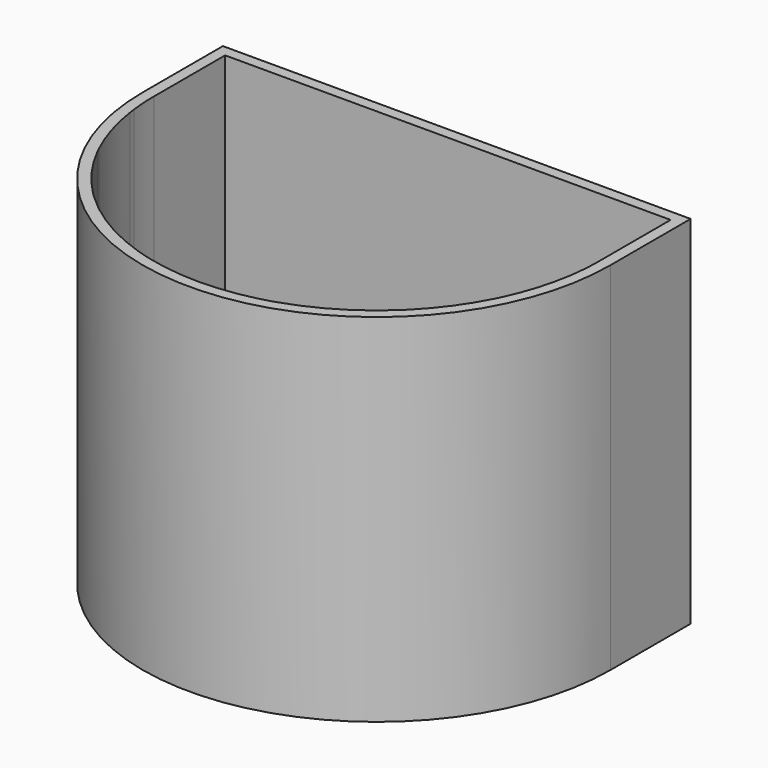
from build123d import *

# Parameters (mm, degrees)
F0_R     = 2.54
F1_DEPTH = 12.7
F2_DEPTH = 101.6


with BuildPart() as f1:
    # F0 (on Top) → F1 (new body)
    with BuildSketch(Plane.XY):
        with BuildLine():
            ThreePointArc((62.807028, -9.355599), (62.927768, -8.505646), (63.037006, -7.654138))
            ThreePointArc((63.037006, -7.654138), (59.982216, 3.436966), (54.992919, 13.802835))
            Line((54.992919, 13.802835), (59.807156, 16.640067))
            ThreePointArc((59.807156, 16.640067), (61.755178, 13.152092), (63.5, 9.558159))
            Line((63.5, 9.558159), (63.5, 10.773581))
            ThreePointArc((63.5, 10.773581), (61.948138, 13.876041), (60.244813, 16.897997))
            Line((60.244813, 16.897997), (63.5, 18.816416))
            Line((63.5, 18.816416), (63.5, 19.406074))
            Line((63.5, 19.406074), (59.98292, 17.33331))
            ThreePointArc((59.98292, 17.33331), (57.271703, 21.467256), (54.276086, 25.4))
            Line((54.276086, 25.4), (53.617854, 25.4))
            ThreePointArc((53.617854, 25.4), (56.734434, 21.346544), (59.545234, 17.075363))
            Line((59.545234, 17.075363), (54.730649, 14.237925))
            ThreePointArc((54.730649, 14.237925), (50.736862, 20.056274), (46.127295, 25.4))
            Line((46.127295, 25.4), (45.419177, 25.4))
            ThreePointArc((45.419177, 25.4), (50.181985, 19.943238), (54.292955, 13.979974))
            Line((54.292955, 13.979974), (49.47828, 11.142483))
            ThreePointArc((49.47828, 11.142483), (43.921813, 18.772751), (37.200587, 25.4))
            Line((37.200587, 25.4), (36.404004, 25.4))
            ThreePointArc((36.404004, 25.4), (43.334384, 18.675127), (49.040577, 10.884526))
            Line((49.040577, 10.884526), (44.225779, 8.046963))
            ThreePointArc((44.225779, 8.046963), (36.522268, 17.777828), (26.72756, 25.4))
            Line((26.72756, 25.4), (25.727881, 25.4))
            ThreePointArc((25.727881, 25.4), (35.85601, 17.720544), (43.788063, 7.788999))
            Line((43.788063, 7.788999), (38.973094, 4.951334))
            ThreePointArc((38.973094, 4.951334), (26.958721, 17.9391), (10.91621, 25.4))
            Line((10.91621, 25.4), (8.265739, 25.4))
            ThreePointArc((8.265739, 25.4), (25.573822, 18.234106), (38.491586, 4.667561))
            Line((38.491586, 4.667561), (33.676364, 1.829748))
            ThreePointArc((33.676364, 1.829748), (19.381603, 15.510308), (0.254, 20.573186))
            Line((0.254, 20.573186), (0.254, 25.4))
            Line((0.254, 25.4), (-0.254, 25.4))
            Line((-0.254, 25.4), (-0.254, 20.573186))
            ThreePointArc((-0.254, 20.573186), (-19.381603, 15.510308), (-33.676364, 1.829748))
            Line((-33.676364, 1.829748), (-38.491586, 4.667561))
            ThreePointArc((-38.491586, 4.667561), (-25.573822, 18.234106), (-8.265739, 25.4))
            Line((-8.265739, 25.4), (-10.91621, 25.4))
            ThreePointArc((-10.91621, 25.4), (-26.958721, 17.9391), (-38.973094, 4.951334))
            Line((-38.973094, 4.951334), (-43.788063, 7.788999))
            ThreePointArc((-43.788063, 7.788999), (-35.85601, 17.720544), (-25.727881, 25.4))
            Line((-25.727881, 25.4), (-26.72756, 25.4))
            ThreePointArc((-26.72756, 25.4), (-36.522268, 17.777828), (-44.225779, 8.046963))
            Line((-44.225779, 8.046963), (-49.040577, 10.884526))
            ThreePointArc((-49.040577, 10.884526), (-43.334384, 18.675127), (-36.404004, 25.4))
            Line((-36.404004, 25.4), (-37.200587, 25.4))
            ThreePointArc((-37.200587, 25.4), (-43.921813, 18.772751), (-49.47828, 11.142483))
            Line((-49.47828, 11.142483), (-54.292955, 13.979974))
            ThreePointArc((-54.292955, 13.979974), (-50.181985, 19.943238), (-45.419177, 25.4))
            Line((-45.419177, 25.4), (-46.127295, 25.4))
            ThreePointArc((-46.127295, 25.4), (-50.736862, 20.056274), (-54.730649, 14.237925))
            Line((-54.730649, 14.237925), (-59.545234, 17.075363))
            ThreePointArc((-59.545234, 17.075363), (-56.734434, 21.346544), (-53.617854, 25.4))
            Line((-53.617854, 25.4), (-54.276086, 25.4))
            ThreePointArc((-54.276086, 25.4), (-57.271703, 21.467256), (-59.98292, 17.33331))
            Line((-59.98292, 17.33331), (-63.5, 19.406074))
            Line((-63.5, 19.406074), (-63.5, 18.816416))
            Line((-63.5, 18.816416), (-60.244813, 16.897997))
            ThreePointArc((-60.244813, 16.897997), (-61.948138, 13.876041), (-63.5, 10.773581))
            Line((-63.5, 10.773581), (-63.5, 9.558159))
            ThreePointArc((-63.5, 9.558159), (-61.755178, 13.152092), (-59.807156, 16.640067))
            Line((-59.807156, 16.640067), (-54.992919, 13.802835))
            ThreePointArc((-54.992919, 13.802835), (-59.982216, 3.436966), (-63.037006, -7.654138))
            ThreePointArc((-63.037006, -7.654138), (-62.927768, -8.505646), (-62.807028, -9.355599))
            ThreePointArc((-62.807028, -9.355599), (-59.787833, 2.493427), (-54.55526, 13.544904))
            Line((-54.55526, 13.544904), (-49.741007, 10.707662))
            ThreePointArc((-49.741007, 10.707662), (-56.816317, -7.578632), (-57.390142, -27.177594))
            ThreePointArc((-57.390142, -27.177594), (-57.018159, -27.949589), (-56.635792, -28.716495))
            ThreePointArc((-56.635792, -28.716495), (-56.473654, -8.477371), (-49.303347, 10.44973))
            Line((-49.303347, 10.44973), (-44.489071, 7.612474))
            ThreePointArc((-44.489071, 7.612474), (-51.863806, -18.492707), (-45.051726, -44.75033))
            ThreePointArc((-45.051726, -44.75033), (-44.35195, -45.443971), (-43.641497, -46.126671))
            ThreePointArc((-43.641497, -46.126671), (-44.005054, -45.531721), (-44.360501, -44.93189))
            Line((-44.360501, -44.93189), (-39.549804, -42.088645))
            ThreePointArc((-39.549804, -42.088645), (-30.99535, -52.728693), (-19.683239, -60.372346))
            ThreePointArc((-19.683239, -60.372346), (-17.346548, -61.084755), (-14.984184, -61.70676))
            ThreePointArc((-14.984184, -61.70676), (-28.800282, -53.902098), (-39.068733, -41.80432))
            Line((-39.068733, -41.80432), (-34.258008, -38.961059))
            ThreePointArc((-34.258008, -38.961059), (-19.872384, -53.330457), (-0.254, -58.673186))
            Line((-0.254, -58.673186), (-0.254, -63.499492))
            ThreePointArc((-0.254, -63.499492), (0, -63.5), (0.254, -63.499492))
            Line((0.254, -63.499492), (0.254, -58.673186))
            ThreePointArc((0.254, -58.673186), (19.872384, -53.330457), (34.258008, -38.961059))
            Line((34.258008, -38.961059), (39.068733, -41.80432))
            ThreePointArc((39.068733, -41.80432), (28.800282, -53.902098), (14.984184, -61.70676))
            ThreePointArc((14.984184, -61.70676), (17.346548, -61.084755), (19.683239, -60.372346))
            ThreePointArc((19.683239, -60.372346), (30.99535, -52.728693), (39.549804, -42.088645))
            Line((39.549804, -42.088645), (44.360501, -44.93189))
            ThreePointArc((44.360501, -44.93189), (44.005054, -45.531721), (43.641497, -46.126671))
            ThreePointArc((43.641497, -46.126671), (44.35195, -45.443971), (45.051726, -44.75033))
            ThreePointArc((45.051726, -44.75033), (51.863806, -18.492707), (44.489071, 7.612474))
            Line((44.489071, 7.612474), (49.303347, 10.44973))
            ThreePointArc((49.303347, 10.44973), (56.473654, -8.477371), (56.635792, -28.716495))
            ThreePointArc((56.635792, -28.716495), (57.018159, -27.949589), (57.390142, -27.177594))
            ThreePointArc((57.390142, -27.177594), (56.816317, -7.578632), (49.741007, 10.707662))
            Line((49.741007, 10.707662), (54.55526, 13.544904))
            ThreePointArc((54.55526, 13.544904), (59.787833, 2.493427), (62.807028, -9.355599))
        make_face()
        with BuildLine():
            ThreePointArc((-29.009902, -35.859295), (-16.851253, -48.035549), (-0.254, -52.577038))
            Line((-0.254, -52.577038), (-0.254, -58.165175))
            ThreePointArc((-0.254, -58.165175), (-19.620624, -52.889216), (-33.820668, -38.70258))
            Line((-33.820668, -38.70258), (-29.009902, -35.859295))
        make_face(mode=Mode.SUBTRACT)
        with BuildLine():
            ThreePointArc((-23.761722, -32.757487), (-13.830084, -42.740576), (-0.254, -46.480824))
            Line((-0.254, -46.480824), (-0.254, -52.069023))
            ThreePointArc((-0.254, -52.069023), (-16.59949, -47.594304), (-28.572557, -35.600813))
            Line((-28.572557, -35.600813), (-23.761722, -32.757487))
        make_face(mode=Mode.SUBTRACT)
        with BuildLine():
            ThreePointArc((-18.513406, -29.655598), (-10.808846, -37.445482), (-0.254, -40.384488))
            Line((-0.254, -40.384488), (-0.254, -45.972802))
            ThreePointArc((-0.254, -45.972802), (-13.578317, -42.299324), (-23.324369, -32.499))
            Line((-23.324369, -32.499), (-18.513406, -29.655598))
        make_face(mode=Mode.SUBTRACT)
        with BuildLine():
            ThreePointArc((-13.264789, -26.553531), (-7.787455, -32.15012), (-0.254, -34.287883))
            Line((-0.254, -34.287883), (-0.254, -39.876451))
            ThreePointArc((-0.254, -39.876451), (-10.557071, -37.004215), (-18.076036, -29.397101))
            Line((-18.076036, -29.397101), (-13.264789, -26.553531))
        make_face(mode=Mode.SUBTRACT)
        with BuildLine():
            ThreePointArc((-8.015269, -23.450931), (-4.765607, -26.853956), (-0.254, -28.190472))
            Line((-0.254, -28.190472), (-0.254, -33.77981))
            ThreePointArc((-0.254, -33.77981), (-7.53566, -31.708817), (-12.827379, -26.295011))
            Line((-12.827379, -26.295011), (-8.015269, -23.450931))
        make_face(mode=Mode.SUBTRACT)
        with BuildLine():
            ThreePointArc((-2.759412, -20.344586), (-1.740549, -21.552158), (-0.254, -22.087398))
            Line((-0.254, -22.087398), (-0.254, -27.682264))
            ThreePointArc((-0.254, -27.682264), (-4.513736, -26.412519), (-7.577708, -23.192322))
            Line((-7.577708, -23.192322), (-2.759412, -20.344586))
        make_face(mode=Mode.SUBTRACT)
        with BuildLine():
            Line((0.254, -58.165175), (0.254, -52.577038))
            ThreePointArc((0.254, -52.577038), (16.851253, -48.035549), (29.009902, -35.859295))
            Line((29.009902, -35.859295), (33.820668, -38.70258))
            ThreePointArc((33.820668, -38.70258), (19.620624, -52.889216), (0.254, -58.165175))
        make_face(mode=Mode.SUBTRACT)
        with BuildLine():
            Line((0.254, -52.069023), (0.254, -46.480824))
            ThreePointArc((0.254, -46.480824), (13.830084, -42.740576), (23.761722, -32.757487))
            Line((23.761722, -32.757487), (28.572557, -35.600813))
            ThreePointArc((28.572557, -35.600813), (16.59949, -47.594304), (0.254, -52.069023))
        make_face(mode=Mode.SUBTRACT)
        with BuildLine():
            Line((0.254, -45.972802), (0.254, -40.384488))
            ThreePointArc((0.254, -40.384488), (10.808846, -37.445482), (18.513406, -29.655598))
            Line((18.513406, -29.655598), (23.324369, -32.499))
            ThreePointArc((23.324369, -32.499), (13.578317, -42.299324), (0.254, -45.972802))
        make_face(mode=Mode.SUBTRACT)
        with BuildLine():
            Line((0.254, -39.876451), (0.254, -34.287883))
            ThreePointArc((0.254, -34.287883), (7.787455, -32.15012), (13.264789, -26.553531))
            Line((13.264789, -26.553531), (18.076036, -29.397101))
            ThreePointArc((18.076036, -29.397101), (10.557071, -37.004215), (0.254, -39.876451))
        make_face(mode=Mode.SUBTRACT)
        with BuildLine():
            Line((0.254, -33.77981), (0.254, -28.190472))
            ThreePointArc((0.254, -28.190472), (4.765607, -26.853956), (8.015269, -23.450931))
            Line((8.015269, -23.450931), (12.827379, -26.295011))
            ThreePointArc((12.827379, -26.295011), (7.53566, -31.708817), (0.254, -33.77981))
        make_face(mode=Mode.SUBTRACT)
        with BuildLine():
            Line((0.254, -27.682264), (0.254, -22.087398))
            ThreePointArc((0.254, -22.087398), (1.740549, -21.552158), (2.759412, -20.344586))
            Line((2.759412, -20.344586), (7.577708, -23.192322))
            ThreePointArc((7.577708, -23.192322), (4.513736, -26.412519), (0.254, -27.682264))
        make_face(mode=Mode.SUBTRACT)
        with BuildLine():
            Line((-39.803082, -41.648247), (-44.614345, -44.491827))
            ThreePointArc((-44.614345, -44.491827), (-51.355773, -18.492389), (-44.051408, 7.354541))
            Line((-44.051408, 7.354541), (-39.237101, 4.517267))
            ThreePointArc((-39.237101, 4.517267), (-45.767361, -18.4889), (-39.803082, -41.648247))
        make_face(mode=Mode.SUBTRACT)
        with BuildLine():
            Line((-34.510481, -38.520185), (-39.321947, -41.363884))
            ThreePointArc((-39.321947, -41.363884), (-45.208514, -18.488551), (-38.755668, 4.233538))
            Line((-38.755668, 4.233538), (-33.941314, 1.396237))
            ThreePointArc((-33.941314, 1.396237), (-39.619972, -18.48506), (-34.510481, -38.520185))
        make_face(mode=Mode.SUBTRACT)
        with BuildLine():
            Line((-29.261283, -35.417776), (-34.073063, -38.26166))
            ThreePointArc((-34.073063, -38.26166), (-39.111916, -18.484743), (-33.503643, 1.138298))
            Line((-33.503643, 1.138298), (-28.689217, -1.699046))
            ThreePointArc((-28.689217, -1.699046), (-33.523176, -18.481251), (-29.261283, -35.417776))
        make_face(mode=Mode.SUBTRACT)
        with BuildLine():
            Line((-24.011527, -32.315036), (-28.823829, -35.159229))
            ThreePointArc((-28.823829, -35.159229), (-33.015096, -18.480934), (-28.251537, -1.956989))
            Line((-28.251537, -1.956989), (-23.436992, -4.794403))
            ThreePointArc((-23.436992, -4.794403), (-27.426024, -18.477439), (-24.011527, -32.315036))
        make_face(mode=Mode.SUBTRACT)
        with BuildLine():
            Line((-18.760733, -29.211683), (-23.574011, -32.056452))
            ThreePointArc((-23.574011, -32.056452), (-26.917905, -18.477122), (-22.999298, -5.052355))
            Line((-22.999298, -5.052355), (-18.184529, -7.889901))
            ThreePointArc((-18.184529, -7.889901), (-21.328213, -18.473622), (-18.760733, -29.211683))
        make_face(mode=Mode.SUBTRACT)
        with BuildLine():
            Line((-13.507652, -26.106978), (-18.323091, -28.953025))
            ThreePointArc((-18.323091, -28.953025), (-20.820015, -18.473303), (-17.746806, -8.147869))
            Line((-17.746806, -8.147869), (-12.931542, -10.985707))
            ThreePointArc((-12.931542, -10.985707), (-15.228951, -18.469788), (-13.507652, -26.106978))
        make_face(mode=Mode.SUBTRACT)
        with BuildLine():
            Line((-8.247691, -22.998206), (-13.069703, -25.848139))
            ThreePointArc((-13.069703, -25.848139), (-14.720557, -18.469466), (-12.493749, -11.243717))
            Line((-12.493749, -11.243717), (-7.676984, -14.08244))
            ThreePointArc((-7.676984, -14.08244), (-9.125324, -18.465879), (-8.247691, -22.998206))
        make_face(mode=Mode.SUBTRACT)
        with BuildLine():
            Line((-2.938335, -19.860242), (-7.80859, -22.738687))
            ThreePointArc((-7.80859, -22.738687), (-8.6162, -18.465543), (-7.238929, -14.340604))
            Line((-7.238929, -14.340604), (-2.411361, -17.185693))
            ThreePointArc((-2.411361, -17.185693), (-2.990504, -18.460773), (-2.938335, -19.860242))
        make_face(mode=Mode.SUBTRACT)
        with BuildLine():
            Line((-0.254, -10.417736), (-0.254, -16.012602))
            ThreePointArc((-0.254, -16.012602), (-1.222549, -16.257926), (-2.059731, -16.803266))
            Line((-2.059731, -16.803266), (-6.948679, -13.922003))
            ThreePointArc((-6.948679, -13.922003), (-4.004949, -11.398799), (-0.254, -10.417736))
        make_face(mode=Mode.SUBTRACT)
        with BuildLine():
            Line((-0.254, -4.32019), (-0.254, -9.909528))
            ThreePointArc((-0.254, -9.909528), (-4.257208, -10.957478), (-7.388541, -13.662774))
            Line((-7.388541, -13.662774), (-12.216914, -10.81721))
            ThreePointArc((-12.216914, -10.81721), (-7.030913, -6.104032), (-0.254, -4.32019))
        make_face(mode=Mode.SUBTRACT)
        with BuildLine():
            Line((-0.254, 1.776451), (-0.254, -3.812117))
            ThreePointArc((-0.254, -3.812117), (-7.283014, -5.662868), (-12.655339, -10.558828))
            Line((-12.655339, -10.558828), (-17.475513, -7.718096))
            ThreePointArc((-17.475513, -7.718096), (-10.05587, -0.810343), (-0.254, 1.776451))
        make_face(mode=Mode.SUBTRACT)
        with BuildLine():
            Line((-0.254, 7.872802), (-0.254, 2.284488))
            ThreePointArc((-0.254, 2.284488), (-10.307933, -0.369223), (-17.913554, -7.45994))
            Line((-17.913554, -7.45994), (-22.731033, -4.620797))
            ThreePointArc((-22.731033, -4.620797), (-13.080537, 4.482984), (-0.254, 7.872802))
        make_face(mode=Mode.SUBTRACT)
        with BuildLine():
            Line((-0.254, 20.065175), (-0.254, 14.477038))
            ThreePointArc((-0.254, 14.477038), (-16.357124, 10.217239), (-28.42299, -1.266287))
            Line((-28.42299, -1.266287), (-33.238602, 1.571756))
            ThreePointArc((-33.238602, 1.571756), (-19.129564, 15.069221), (-0.254, 20.065175))
        make_face(mode=Mode.SUBTRACT)
        with BuildLine():
            Line((-0.254, 13.969023), (-0.254, 8.380824))
            ThreePointArc((-0.254, 8.380824), (-13.332586, 4.924086), (-23.168919, -4.362732))
            Line((-23.168919, -4.362732), (-27.985182, -1.524305))
            ThreePointArc((-27.985182, -1.524305), (-16.105082, 9.776147), (-0.254, 13.969023))
        make_face(mode=Mode.SUBTRACT)
        with Locations((0, -19.05)):
            Circle(F0_R, mode=Mode.SUBTRACT)
        with BuildLine():
            ThreePointArc((2.938335, -19.860242), (2.990504, -18.460773), (2.411361, -17.185693))
            Line((2.411361, -17.185693), (7.238929, -14.340604))
            ThreePointArc((7.238929, -14.340604), (8.6162, -18.465543), (7.80859, -22.738687))
            Line((7.80859, -22.738687), (2.938335, -19.860242))
        make_face(mode=Mode.SUBTRACT)
        with BuildLine():
            Line((0.254, -16.012602), (0.254, -10.417736))
            ThreePointArc((0.254, -10.417736), (4.004949, -11.398799), (6.948679, -13.922003))
            Line((6.948679, -13.922003), (2.059731, -16.803266))
            ThreePointArc((2.059731, -16.803266), (1.222549, -16.257926), (0.254, -16.012602))
        make_face(mode=Mode.SUBTRACT)
        with BuildLine():
            ThreePointArc((8.247691, -22.998206), (9.125324, -18.465879), (7.676984, -14.08244))
            Line((7.676984, -14.08244), (12.493749, -11.243717))
            ThreePointArc((12.493749, -11.243717), (14.720557, -18.469466), (13.069703, -25.848139))
            Line((13.069703, -25.848139), (8.247691, -22.998206))
        make_face(mode=Mode.SUBTRACT)
        with BuildLine():
            Line((0.254, -9.909528), (0.254, -4.32019))
            ThreePointArc((0.254, -4.32019), (7.030913, -6.104032), (12.216914, -10.81721))
            Line((12.216914, -10.81721), (7.388541, -13.662774))
            ThreePointArc((7.388541, -13.662774), (4.257208, -10.957478), (0.254, -9.909528))
        make_face(mode=Mode.SUBTRACT)
        with BuildLine():
            ThreePointArc((13.507652, -26.106978), (15.228951, -18.469788), (12.931542, -10.985707))
            Line((12.931542, -10.985707), (17.746806, -8.147869))
            ThreePointArc((17.746806, -8.147869), (20.820015, -18.473303), (18.323091, -28.953025))
            Line((18.323091, -28.953025), (13.507652, -26.106978))
        make_face(mode=Mode.SUBTRACT)
        with BuildLine():
            ThreePointArc((18.760733, -29.211683), (21.328213, -18.473622), (18.184529, -7.889901))
            Line((18.184529, -7.889901), (22.999298, -5.052355))
            ThreePointArc((22.999298, -5.052355), (26.917905, -18.477122), (23.574011, -32.056452))
            Line((23.574011, -32.056452), (18.760733, -29.211683))
        make_face(mode=Mode.SUBTRACT)
        with BuildLine():
            ThreePointArc((24.011527, -32.315036), (27.426024, -18.477439), (23.436992, -4.794403))
            Line((23.436992, -4.794403), (28.251537, -1.956989))
            ThreePointArc((28.251537, -1.956989), (33.015096, -18.480934), (28.823829, -35.159229))
            Line((28.823829, -35.159229), (24.011527, -32.315036))
        make_face(mode=Mode.SUBTRACT)
        with BuildLine():
            Line((0.254, -3.812117), (0.254, 1.776451))
            ThreePointArc((0.254, 1.776451), (10.05587, -0.810343), (17.475513, -7.718096))
            Line((17.475513, -7.718096), (12.655339, -10.558828))
            ThreePointArc((12.655339, -10.558828), (7.283014, -5.662868), (0.254, -3.812117))
        make_face(mode=Mode.SUBTRACT)
        with BuildLine():
            Line((0.254, 2.284488), (0.254, 7.872802))
            ThreePointArc((0.254, 7.872802), (13.080537, 4.482984), (22.731033, -4.620797))
            Line((22.731033, -4.620797), (17.913554, -7.45994))
            ThreePointArc((17.913554, -7.45994), (10.307933, -0.369223), (0.254, 2.284488))
        make_face(mode=Mode.SUBTRACT)
        with BuildLine():
            ThreePointArc((29.261283, -35.417776), (33.523176, -18.481251), (28.689217, -1.699046))
            Line((28.689217, -1.699046), (33.503643, 1.138298))
            ThreePointArc((33.503643, 1.138298), (39.111916, -18.484743), (34.073063, -38.26166))
            Line((34.073063, -38.26166), (29.261283, -35.417776))
        make_face(mode=Mode.SUBTRACT)
        with BuildLine():
            ThreePointArc((34.510481, -38.520185), (39.619972, -18.48506), (33.941314, 1.396237))
            Line((33.941314, 1.396237), (38.755668, 4.233538))
            ThreePointArc((38.755668, 4.233538), (45.208514, -18.488551), (39.321947, -41.363884))
            Line((39.321947, -41.363884), (34.510481, -38.520185))
        make_face(mode=Mode.SUBTRACT)
        with BuildLine():
            ThreePointArc((39.803082, -41.648247), (45.767361, -18.4889), (39.237101, 4.517267))
            Line((39.237101, 4.517267), (44.051408, 7.354541))
            ThreePointArc((44.051408, 7.354541), (51.355773, -18.492389), (44.614345, -44.491827))
            Line((44.614345, -44.491827), (39.803082, -41.648247))
        make_face(mode=Mode.SUBTRACT)
        with BuildLine():
            Line((0.254, 8.380824), (0.254, 13.969023))
            ThreePointArc((0.254, 13.969023), (16.105082, 9.776147), (27.985182, -1.524305))
            Line((27.985182, -1.524305), (23.168919, -4.362732))
            ThreePointArc((23.168919, -4.362732), (13.332586, 4.924086), (0.254, 8.380824))
        make_face(mode=Mode.SUBTRACT)
        with BuildLine():
            Line((0.254, 14.477038), (0.254, 20.065175))
            ThreePointArc((0.254, 20.065175), (19.129564, 15.069221), (33.238602, 1.571756))
            Line((33.238602, 1.571756), (28.42299, -1.266287))
            ThreePointArc((28.42299, -1.266287), (16.357124, 10.217239), (0.254, 14.477038))
        make_face(mode=Mode.SUBTRACT)
        with BuildLine():
            Line((63.5, 22.238276), (63.5, 25.4))
            Line((63.5, 25.4), (61.328372, 25.4))
            ThreePointArc((61.328372, 25.4), (62.434203, 23.832887), (63.5, 22.238276))
        make_face()
        with BuildLine():
            Line((-61.328372, 25.4), (-63.5, 25.4))
            Line((-63.5, 25.4), (-63.5, 22.238276))
            ThreePointArc((-63.5, 22.238276), (-62.434203, 23.832887), (-61.328372, 25.4))
        make_face()
    extrude(amount=F1_DEPTH)


with BuildPart() as f2:
    # F0 (on Top) → F2 (new body)
    with BuildSketch(Plane.XY):
        Polygon((63.5, 25.4), (66.675, 25.4), (66.675, 28.575), (-66.675, 28.575), (-66.675, 25.4), (-63.5, 25.4), (-61.328372, 25.4), (-54.276086, 25.4), (-53.617854, 25.4), (-46.127295, 25.4), (-45.419177, 25.4), (-37.200587, 25.4), (-36.404004, 25.4), (-26.72756, 25.4), (-25.727881, 25.4), (-10.91621, 25.4), (-8.265739, 25.4), (-0.254, 25.4), (0.254, 25.4), (8.265739, 25.4), (10.91621, 25.4), (25.727881, 25.4), (26.72756, 25.4), (36.404004, 25.4), (37.200587, 25.4), (45.419177, 25.4), (46.127295, 25.4), (53.617854, 25.4), (54.276086, 25.4), (61.328372, 25.4), align=None)
        Polygon((-66.675, 25.4), (-66.675, 0), (-63.5, 0), (-63.5, 9.558159), (-63.5, 10.773581), (-63.5, 18.816416), (-63.5, 19.406074), (-63.5, 22.238276), (-63.5, 25.4), align=None)
        Polygon((63.5, 9.558159), (63.5, 0), (66.675, 0), (66.675, 25.4), (63.5, 25.4), (63.5, 22.238276), (63.5, 19.406074), (63.5, 18.816416), (63.5, 10.773581), align=None)
        with BuildLine():
            Line((66.675, 0), (63.5, 0))
            ThreePointArc((63.5, 0), (63.384146, -3.834064), (63.037006, -7.654138))
            ThreePointArc((63.037006, -7.654138), (62.927768, -8.505646), (62.807028, -9.355599))
            ThreePointArc((62.807028, -9.355599), (60.755624, -18.466299), (57.390142, -27.177594))
            ThreePointArc((57.390142, -27.177594), (57.018159, -27.949589), (56.635792, -28.716495))
            ThreePointArc((56.635792, -28.716495), (51.471922, -37.187245), (45.051726, -44.75033))
            ThreePointArc((45.051726, -44.75033), (44.35195, -45.443971), (43.641497, -46.126671))
            ThreePointArc((43.641497, -46.126671), (32.453664, -54.580305), (19.683239, -60.372346))
            ThreePointArc((19.683239, -60.372346), (17.346548, -61.084755), (14.984184, -61.70676))
            ThreePointArc((14.984184, -61.70676), (7.671638, -63.034879), (0.254, -63.499492))
            ThreePointArc((0.254, -63.499492), (0, -63.5), (-0.254, -63.499492))
            ThreePointArc((-0.254, -63.499492), (-7.671638, -63.034879), (-14.984184, -61.70676))
            ThreePointArc((-14.984184, -61.70676), (-17.346548, -61.084755), (-19.683239, -60.372346))
            ThreePointArc((-19.683239, -60.372346), (-32.453664, -54.580305), (-43.641497, -46.126671))
            ThreePointArc((-43.641497, -46.126671), (-44.35195, -45.443971), (-45.051726, -44.75033))
            ThreePointArc((-45.051726, -44.75033), (-51.471922, -37.187245), (-56.635792, -28.716495))
            ThreePointArc((-56.635792, -28.716495), (-57.018159, -27.949589), (-57.390142, -27.177594))
            ThreePointArc((-57.390142, -27.177594), (-60.755624, -18.466299), (-62.807028, -9.355599))
            ThreePointArc((-62.807028, -9.355599), (-62.927768, -8.505646), (-63.037006, -7.654138))
            ThreePointArc((-63.037006, -7.654138), (-63.384146, -3.834064), (-63.5, 0))
            Line((-63.5, 0), (-66.675, 0))
            ThreePointArc((-66.675, 0), (0, -66.675), (66.675, 0))
        make_face()
    extrude(amount=F2_DEPTH)


solid = Compound([f1.part, f2.part])
